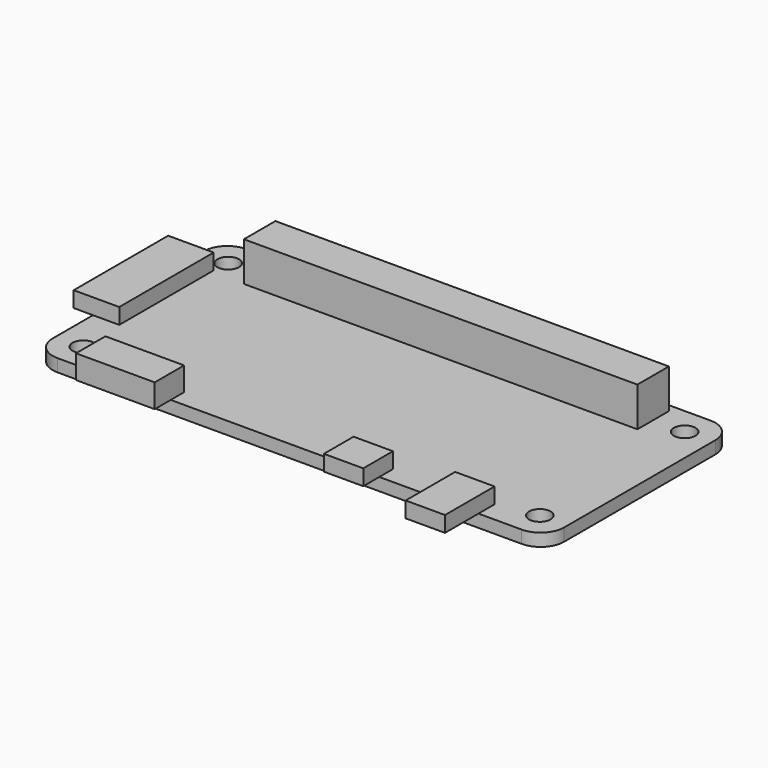
from build123d import *

# Parameters (mm, degrees)
F0_R     = 1.375
F1_DEPTH = 1.6
F2_W     = 2.44764
F2_H     = 15
F2_W_2   = 3.340326
F3_DEPTH = 2
F2_W_3   = 50
F2_H_2   = 5
F4_DEPTH = 5
F2_W_4   = 5
F2_H_3   = 2.543583
F2_H_4   = 2.167234
F2_H_5   = 2.553497
F2_H_6   = 5.309687
F5_DEPTH = 2
F2_W_5   = 10
F2_H_7   = 2.125936
F6_DEPTH = 3


with BuildPart() as f1:
    # F0 (on Top) → F1 (new body)
    with BuildSketch(Plane.XY):
        with BuildLine():
            Line((-33.531875, -93.493047), (-92.531875, -93.493047))
            ThreePointArc((-92.531875, -93.493047), (-94.653195, -94.371726), (-95.531875, -96.493047))
            Line((-95.531875, -96.493047), (-95.531875, -120.493047))
            ThreePointArc((-95.531875, -120.493047), (-94.653195, -122.614367), (-92.531875, -123.493047))
            Line((-92.531875, -123.493047), (-33.531875, -123.493047))
            ThreePointArc((-33.531875, -123.493047), (-31.410555, -122.614367), (-30.531875, -120.493047))
            Line((-30.531875, -120.493047), (-30.531875, -96.493047))
            ThreePointArc((-30.531875, -96.493047), (-31.410555, -94.371726), (-33.531875, -93.493047))
        make_face()
        with Locations((-92.031875, -119.993047)):
            Circle(F0_R, mode=Mode.SUBTRACT)
        with Locations((-34.031875, -119.993047)):
            Circle(F0_R, mode=Mode.SUBTRACT)
        with Locations((-92.031875, -96.993047)):
            Circle(F0_R, mode=Mode.SUBTRACT)
        with Locations((-34.031875, -96.993047)):
            Circle(F0_R, mode=Mode.SUBTRACT)
    extrude(amount=F1_DEPTH)

    # F2 (on face) → F3 (join)
    with BuildSketch(Plane.XY.offset(1.6)):
        with Locations((-96.755695, -106.593047)):
            Rectangle(F2_W, F2_H)
        with Locations((-93.861712, -106.593047)):
            Rectangle(F2_W_2, F2_H)
    extrude(amount=F3_DEPTH)

    # F2 (on face) → F4 (join)
    with BuildSketch(Plane.XY.offset(1.6)):
        with Locations((-63.031875, -96.993047)):
            Rectangle(F2_W_3, F2_H_2)
    extrude(amount=F4_DEPTH)

    # F2 (on face) → F5 (join)
    with BuildSketch(Plane.XY.offset(1.6)):
        with Locations((-54.131875, -124.764838)):
            Rectangle(F2_W_4, F2_H_3)
        with Locations((-54.131875, -122.40943)):
            Rectangle(F2_W_4, F2_H_4)
        with Locations((-41.531875, -122.216298)):
            Rectangle(F2_W_4, F2_H_5)
        with Locations((-41.531875, -126.14789)):
            Rectangle(F2_W_4, F2_H_6)
    extrude(amount=F5_DEPTH)

    # F2 (on face) → F6 (join)
    with BuildSketch(Plane.XY.offset(1.6)):
        with Locations((-83.131875, -122.430079)):
            Rectangle(F2_W_5, F2_H_7)
        with Locations((-83.131875, -124.764838)):
            Rectangle(F2_W_5, F2_H_3)
    extrude(amount=F6_DEPTH)


solid = f1.part
